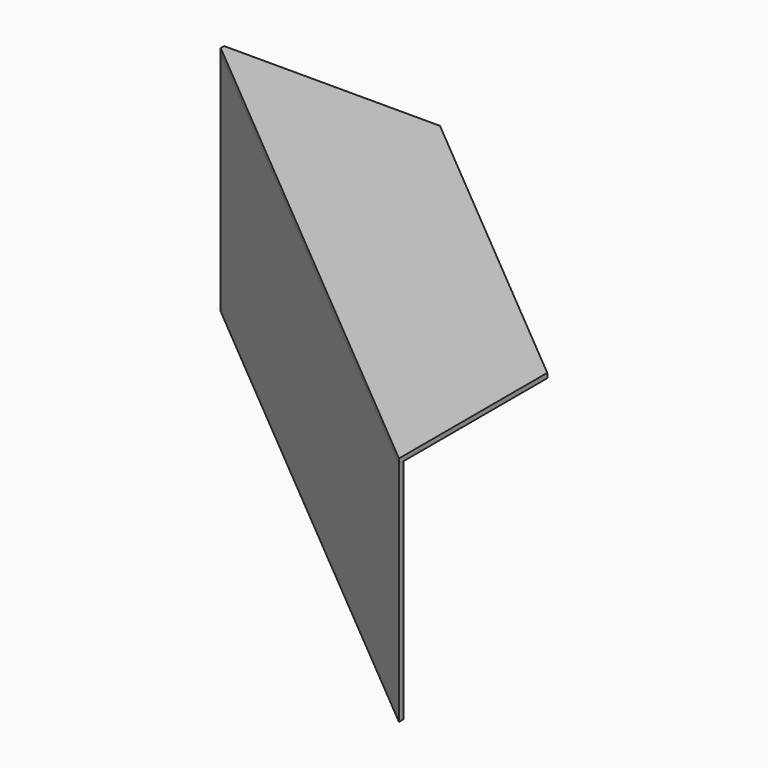
from build123d import *

# Parameters (mm, degrees)
F2_DEPTH = 20
F3_DEPTH = 960
F4_DEPTH = 960


with BuildPart() as f2:
    # F1 (on Top) → F2 (new body)
    with BuildSketch(Plane.XY):
        Polygon((-2262.8597001802, 1922.2620710351), (0, 23.497331208), (0, 783.2443735994), (-1357.4284329475, 1922.2620710351), (-1378.8799976142, 1922.2620710351), align=None)
        Polygon((-2290.8627290637, 1940.2620710351), (-2290.8627290637, 1922.2620710351), (-2262.8597001802, 1922.2620710351), (-1378.8799976142, 1922.2620710351), (-1378.8799976142, 1940.2620710351), align=None)
        Polygon((-2290.8627290637, 1922.2620710351), (0, 0), (0, 23.497331208), (-2262.8597001802, 1922.2620710351), align=None)
        Polygon((-1378.8799976142, 1922.2620710351), (-1357.4284329475, 1922.2620710351), (-1378.8799976142, 1940.2620710351), align=None)
    extrude(amount=F2_DEPTH)


with BuildPart() as f3:
    # F1 (on Top) → F3 (new body)
    with BuildSketch(Plane.XY):
        Polygon((-2290.8627290637, 1940.2620710351), (-2290.8627290637, 1922.2620710351), (-2262.8597001802, 1922.2620710351), (-1378.8799976142, 1922.2620710351), (-1378.8799976142, 1940.2620710351), align=None)
    extrude(amount=-F3_DEPTH)


with BuildPart() as f4:
    # F1 (on Top) → F4 (new body)
    with BuildSketch(Plane.XY):
        Polygon((-2290.8627290637, 1922.2620710351), (0, 0), (0, 23.497331208), (-2262.8597001802, 1922.2620710351), align=None)
    extrude(amount=-F4_DEPTH)


solid = Compound([f2.part, f3.part, f4.part])
